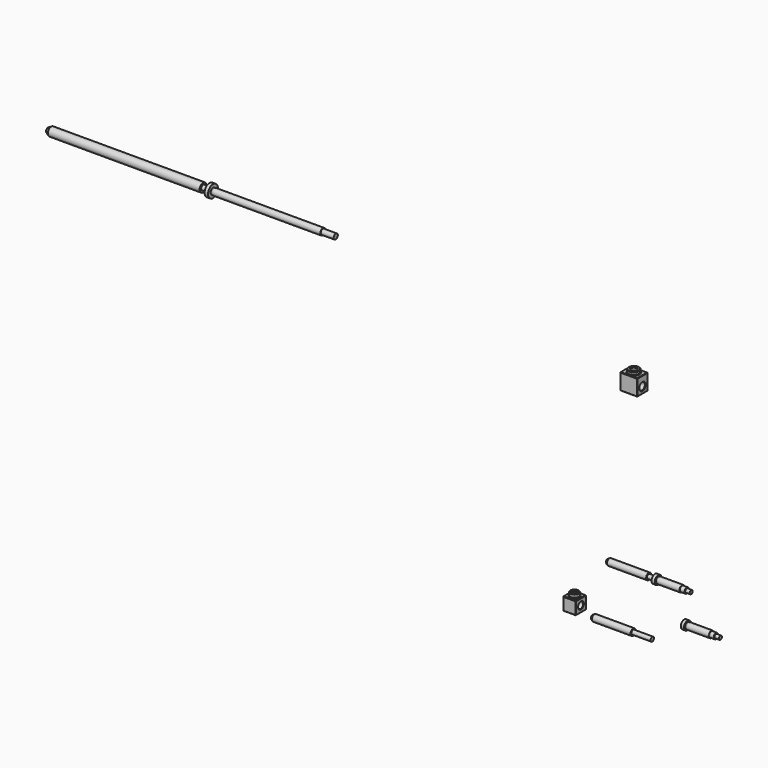
from build123d import *

# Parameters (mm, degrees)
F4_W      = 19.05
F4_H      = 19.05
F4_R      = 4.7625
F5_DEPTH  = 19.05
F6_R      = 6.35
F6_R_2    = 3.175
F7_DEPTH  = 5.08
F8_SIZE   = 0.635
F11_W     = 19.177
F11_H     = 24.13
F11_R     = 5.2578
F12_DEPTH = 25.4
F13_R     = 7.9121
F13_R_2   = 3.9497
F14_DEPTH = 4.445
F15_SIZE  = 0.635


with BuildPart() as f1:
    # F0 (on Front) → F1 (revolve)
    with BuildSketch(Plane.XZ):
        Polygon((-67.1759034309, -9.422924332), (-67.1759034309, -12.534424332), (56.0775965691, -12.534424332), (56.0775965691, -9.803924332), (49.4735965691, -9.803924332), (49.4735965691, -8.533924332), (42.6155965691, -8.533924332), (42.6155965691, -7.771924332), (9.5955965691, -7.771924332), (9.5955965691, -8.168799332), (7.4365965691, -8.168799332), (7.4365965691, -6.184424332), (2.6740965691, -6.184424332), (2.6740965691, -9.422924332), (-6.5207034309, -9.422924332), (-6.5207034309, -7.771924332), (-64.3162875476, -7.771924332), align=None)
    revolve(axis=Axis((-5.5491534309, 0, -12.534424332), (-1, 0, 0)))


with BuildPart() as f2:
    # F0 (on Front) → F2 (revolve)
    with BuildSketch(Plane.XZ):
        Polygon((-89.2985454399, -89.1541014334), (-89.2985454399, -92.2656014334), (-1.2367454399, -92.2656014334), (-1.2367454399, -89.1541014334), (-29.4815454399, -89.1541014334), (-29.4815454399, -87.5031014334), (-86.4389295566, -87.5031014334), align=None)
    revolve(axis=Axis((-45.2676454399, 0, -92.2656014334), (1, 0, 0)))


with BuildPart() as f3:
    # F0 (on Front) → F3 (revolve)
    with BuildSketch(Plane.XZ):
        Polygon((45.8081327622, -51.2965384915), (45.8081327622, -54.5350384915), (64.8581327622, -54.5350384915), (64.8581327622, -57.6465384915), (99.2116327622, -57.6465384915), (99.2116327622, -54.9160384915), (92.6076327622, -54.9160384915), (92.6076327622, -53.6460384915), (85.7496327622, -53.6460384915), (85.7496327622, -52.8840384915), (52.7296327622, -52.8840384915), (52.7296327622, -53.2809134915), (50.5706327622, -53.2809134915), (50.5706327622, -51.2965384915), align=None)
    revolve(axis=Axis((82.0348827622, 0, -57.6465384915), (1, 0, 0)))


with BuildPart() as f5:
    # F4 (on Right) → F5 (new body)
    with BuildSketch(Plane.YZ):
        with Locations((-156.7508269787, 22.0178019941)):
            Rectangle(F4_W, F4_H)
        with Locations((-156.7508269787, 22.0178019941)):
            Circle(F4_R, mode=Mode.SUBTRACT)
    extrude(amount=F5_DEPTH)

    # F6 (on face) → F7 (join)
    with BuildSketch(Plane.XY.offset(31.5428019941)):
        with Locations((9.525, -156.7508269787)):
            Circle(F6_R)
        with Locations((9.525, -156.7508269787)):
            Circle(F6_R_2, mode=Mode.SUBTRACT)
    extrude(amount=F7_DEPTH)

    # F8
    f8_edges = [f5.edges().sort_by_distance(p)[0] for p in [
        (3.175, -156.750827, 36.622802),
        (6.35, -156.750827, 36.622802),
        (19.05, -161.513327, 22.017802),
        (19.05, -156.750827, 31.542802),
        (9.525, -147.225827, 31.542802),
        (0, -156.750827, 31.542802),
        (9.525, -166.275827, 31.542802),
        (3.175, -156.750827, 31.542802),
        (9.525, -147.225827, 12.492802),
        (0, -147.225827, 22.017802),
        (19.05, -147.225827, 22.017802),
        (19.05, -166.275827, 22.017802),
        (19.05, -156.750827, 12.492802),
        (9.525, -166.275827, 12.492802),
        (0, -166.275827, 22.017802),
        (0, -156.750827, 12.492802),
        (0, -161.513327, 22.017802),
    ]]
    chamfer(f8_edges, length=F8_SIZE)


with BuildPart() as f10:
    # F9 (on Front) → F10 (revolve)
    with BuildSketch(Plane.XZ):
        Polygon((-892.1046921184, 282.1644161363), (-892.1046921184, 278.5957161363), (-467.9246921184, 278.5957161363), (-467.9246921184, 282.4311161363), (-486.9746921184, 282.4311161363), (-486.9746921184, 283.3582161363), (-646.7406921184, 283.3582161363), (-646.7406921184, 282.9899161363), (-648.8996921184, 282.9899161363), (-648.8996921184, 287.7016161363), (-653.9796921184, 287.7016161363), (-653.9796921184, 282.1644161363), (-663.5046921184, 282.1644161363), (-663.5046921184, 284.9457161363), (-887.2873392073, 284.9457161363), align=None)
    revolve(axis=Axis((-680.0146921184, 0, 278.5957161363), (-1, 0, 0)))


with BuildPart() as f12:
    # F11 (on Right) → F12 (new body)
    with BuildSketch(Plane.YZ):
        with Locations((-51.3574532042, 267.6172024632)):
            Rectangle(F11_W, F11_H)
        with Locations((-51.3574532042, 265.3312024632)):
            Circle(F11_R, mode=Mode.SUBTRACT)
    extrude(amount=F12_DEPTH)

    # F13 (on face) → F14 (join)
    with BuildSketch(Plane.XY.offset(279.6822024632)):
        with Locations((12.7, -51.3574532042)):
            Circle(F13_R)
        with Locations((12.7, -51.3574532042)):
            Circle(F13_R_2, mode=Mode.SUBTRACT)
    extrude(amount=F14_DEPTH)

    # F15
    f15_edges = [f12.edges().sort_by_distance(p)[0] for p in [
        (4.7879, -51.357453, 284.127202),
        (8.7503, -51.357453, 284.127202),
        (12.7, -41.768953, 279.682202),
        (0, -51.357453, 279.682202),
        (25.4, -51.357453, 279.682202),
        (12.7, -60.945953, 279.682202),
        (4.7879, -51.357453, 279.682202),
        (0, -60.945953, 267.617202),
        (0, -51.357453, 255.552202),
        (0, -41.768953, 267.617202),
        (0, -56.615253, 265.331202),
        (12.7, -41.768953, 255.552202),
        (25.4, -41.768953, 267.617202),
        (25.4, -60.945953, 267.617202),
        (25.4, -51.357453, 255.552202),
        (25.4, -56.615253, 265.331202),
        (12.7, -60.945953, 255.552202),
    ]]
    chamfer(f15_edges, length=F15_SIZE)


solid = Compound([f1.part, f2.part, f3.part, f5.part, f10.part, f12.part])
